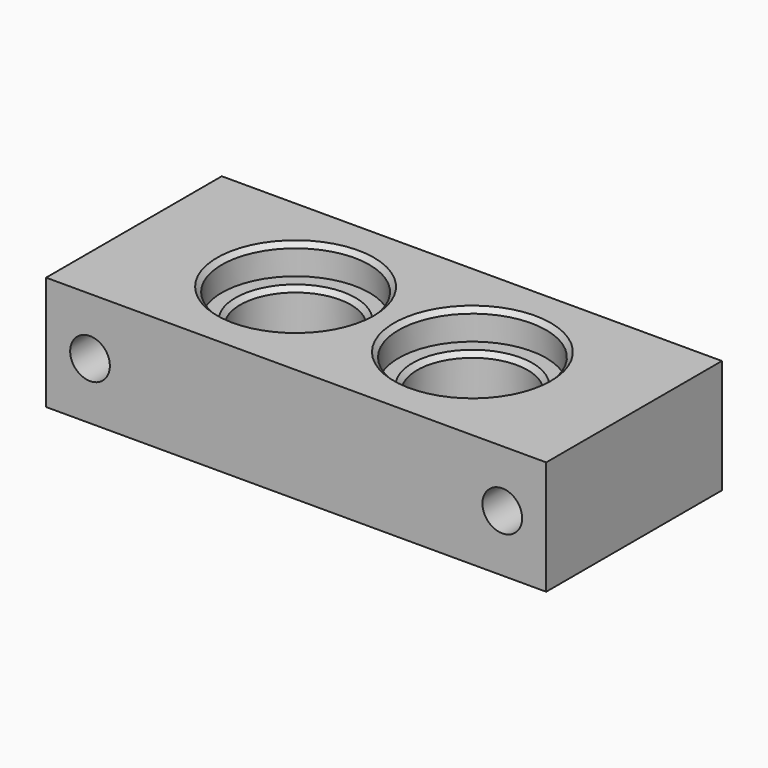
from build123d import *

# Parameters (mm, degrees)
F0_W     = 54.224986
F0_H     = 23.8125
F0_R     = 6.000001
F1_DEPTH = 12.349988
F2_R     = 7.999997
F3_DEPTH = 3.175
F4_R     = 7.999997
F5_DEPTH = 3.175
F6_R     = 2.15265
F7_DEPTH = 23.8125
F8_SIZE  = 0.508


with BuildPart() as f1:
    # F0 (on Top) → F1 (new body)
    with BuildSketch(Plane.XY):
        Rectangle(F0_W, F0_H)
        with Locations((-9.587497, 0)):
            Circle(F0_R, mode=Mode.SUBTRACT)
        with Locations((9.587497, 0)):
            Circle(F0_R, mode=Mode.SUBTRACT)
    extrude(amount=F1_DEPTH)

    # F2 (on face) → F3 (cut)
    with BuildSketch(Plane(origin=(0, 0, 0), x_dir=(1, 0, 0), z_dir=(0, 0, -1))):
        with Locations((9.587497, 0)):
            Circle(F2_R)
        with Locations((-9.587497, 0)):
            Circle(F2_R)
    extrude(amount=-F3_DEPTH, mode=Mode.SUBTRACT)

    # F4 (on face) → F5 (cut)
    with BuildSketch(Plane.XY.offset(12.349988)):
        with Locations((9.587497, 0)):
            Circle(F4_R)
        with Locations((-9.587497, 0)):
            Circle(F4_R)
    extrude(amount=-F5_DEPTH, mode=Mode.SUBTRACT)

    # F6 (on face) → F7 (cut, through all)
    with BuildSketch(Plane.XZ.offset(11.90625)):
        with Locations((-22.349993, 6.174994)):
            Circle(F6_R)
        with Locations((22.349993, 6.174994)):
            Circle(F6_R)
    extrude(amount=-F7_DEPTH, mode=Mode.SUBTRACT)

    # F8
    f8_edges = [f1.edges().sort_by_distance(p)[0] for p in [
        (1.5875, 0, 0),
        (3.587496, 0, 3.175),
        (3.587496, 0, 9.174988),
        (1.5875, 0, 12.349988),
        (-17.587493, 0, 12.349988),
        (-17.587493, 0, 0),
        (-15.587497, 0, 3.175),
        (-15.587497, 0, 9.174988),
    ]]
    chamfer(f8_edges, length=F8_SIZE)


solid = f1.part
